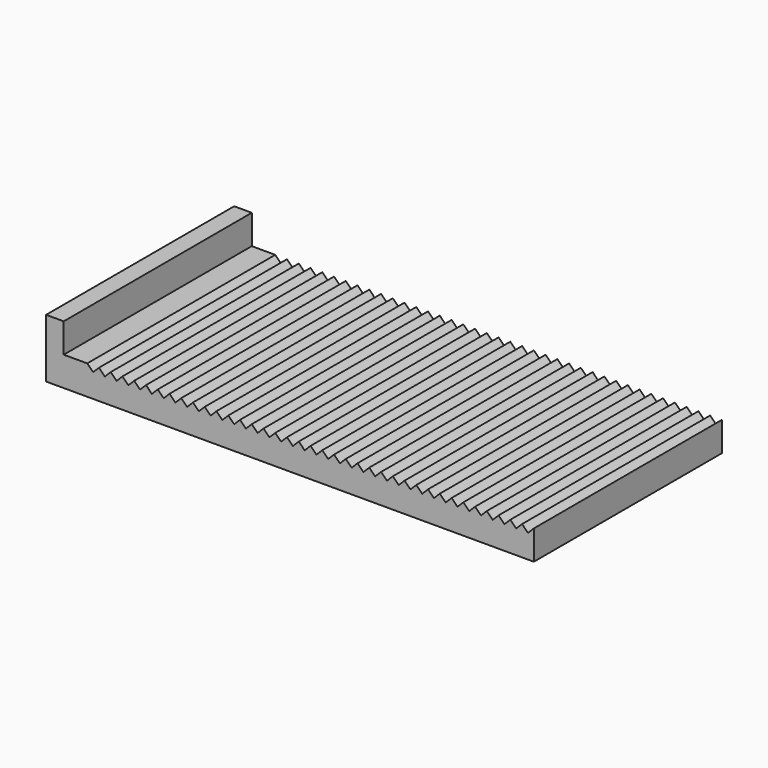
from build123d import *

# Parameters (mm, degrees)
F1_DEPTH = 25.4


with BuildPart() as f1:
    # F0 (on Front) → F1 (new body)
    with BuildSketch(Plane.XZ):
        Polygon((-1.905, 0), (0, 0), (50.8, 0), (50.8, 3.175), (50.165, 2.54), (49.53, 3.175), (48.895, 2.54), (48.26, 3.175), (47.625, 2.54), (46.99, 3.175), (46.355, 2.54), (45.72, 3.175), (45.085, 2.54), (44.45, 3.175), (43.815, 2.54), (43.18, 3.175), (42.545, 2.54), (41.91, 3.175), (41.275, 2.54), (40.64, 3.175), (40.005, 2.54), (39.37, 3.175), (38.735, 2.54), (38.1, 3.175), (37.465, 2.54), (36.83, 3.175), (36.195, 2.54), (35.56, 3.175), (34.925, 2.54), (34.29, 3.175), (33.655, 2.54), (33.02, 3.175), (32.385, 2.54), (31.75, 3.175), (31.115, 2.54), (30.48, 3.175), (29.845, 2.54), (29.21, 3.175), (28.575, 2.54), (27.94, 3.175), (27.305, 2.54), (26.67, 3.175), (26.035, 2.54), (25.4, 3.175), (24.765, 2.54), (24.13, 3.175), (23.495, 2.54), (22.86, 3.175), (22.225, 2.54), (21.59, 3.175), (20.955, 2.54), (20.32, 3.175), (19.685, 2.54), (19.05, 3.175), (18.415, 2.54), (17.78, 3.175), (17.145, 2.54), (16.51, 3.175), (15.875, 2.54), (15.24, 3.175), (14.605, 2.54), (13.97, 3.175), (13.335, 2.54), (12.7, 3.175), (12.065, 2.54), (11.43, 3.175), (10.795, 2.54), (10.16, 3.175), (9.525, 2.54), (8.89, 3.175), (8.255, 2.54), (7.62, 3.175), (6.985, 2.54), (6.35, 3.175), (5.715, 2.54), (5.08, 3.175), (4.445, 2.54), (3.81, 3.175), (3.175, 2.54), (2.54, 3.175), (0, 3.175), (0, 6.35), (-1.905, 6.35), align=None)
    extrude(amount=F1_DEPTH)


solid = f1.part
